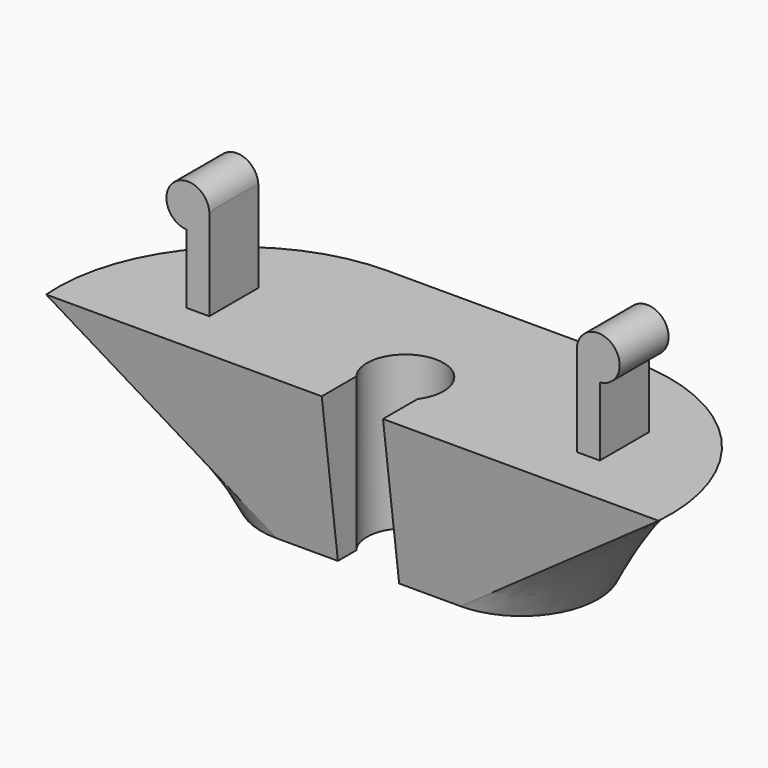
from build123d import *

# Parameters (mm, degrees)
PAD003_DEPTH    = 2
POCKET059_DEPTH = 14


with BuildPart() as part:
    # Sketch161 (on XY_Plane of Origin) → AdditiveLoft001 section 0
    with BuildSketch(Plane.XY):
        with BuildLine():
            ThreePointArc((-8.035319, 4.6), (-16.839863, 0.753527), (-20, -8.32))
            Line((-20, -8.32), (20, -8.32))
            ThreePointArc((20, -8.32), (16.839863, 0.753527), (8.035319, 4.6))
            Line((-8.035319, 4.6), (8.035319, 4.6))
        make_face()
    # Sketch162 (on XY_Plane of Origin) → AdditiveLoft001 section 1
    with BuildSketch(Plane.XY.offset(-10)):
        with BuildLine():
            ThreePointArc((-6, 3), (-11, -2), (-6, -7))
            Line((-6, -7), (6, -7))
            ThreePointArc((6, -7), (11, -2), (6, 3))
            Line((-6, 3), (6, 3))
        make_face()
    loft()

    # Sketch163 (on XZ_Plane of Origin) → Pad003 (new body, symmetric)
    with BuildSketch(Plane.XZ.offset(3)):
        with BuildLine():
            Line((-12, 0), (-12, 6))
            ThreePointArc((-12, 6), (-14.386092, 6.886092), (-13.5, 4.5))
            Line((-13.5, 4.5), (-13.5, 0))
            Line((-13.5, 0), (-12, 0))
        make_face()
        with BuildLine():
            Line((12, 0), (12, 6))
            ThreePointArc((13.5, 4.5), (14.386092, 6.886092), (12, 6))
            Line((13.5, 4.5), (13.5, 0))
            Line((13.5, 0), (12, 0))
        make_face()
    extrude(amount=PAD003_DEPTH, both=True)

    # Sketch164 (on Face14 of Pad003) → Pocket059 (cut)
    with BuildSketch(Plane(origin=(0, 0, -10), x_dir=(1, 0, 0), z_dir=(0, 0, -1))):
        with BuildLine():
            Line((0, 13.5), (2, 13.5))
            Line((2, 5.5), (2, 13.5))
            ThreePointArc((-2, 5.5), (0, 1.5), (2, 5.5))
            Line((-2, 13.5), (-2, 5.5))
            Line((0, 13.5), (-2, 13.5))
        make_face()
    extrude(amount=-POCKET059_DEPTH, mode=Mode.SUBTRACT)


with BuildPart() as part_1:
    # Body placement: moved
    add(part.part.moved(Location((0, 0, -106))))


solid = part_1.part
